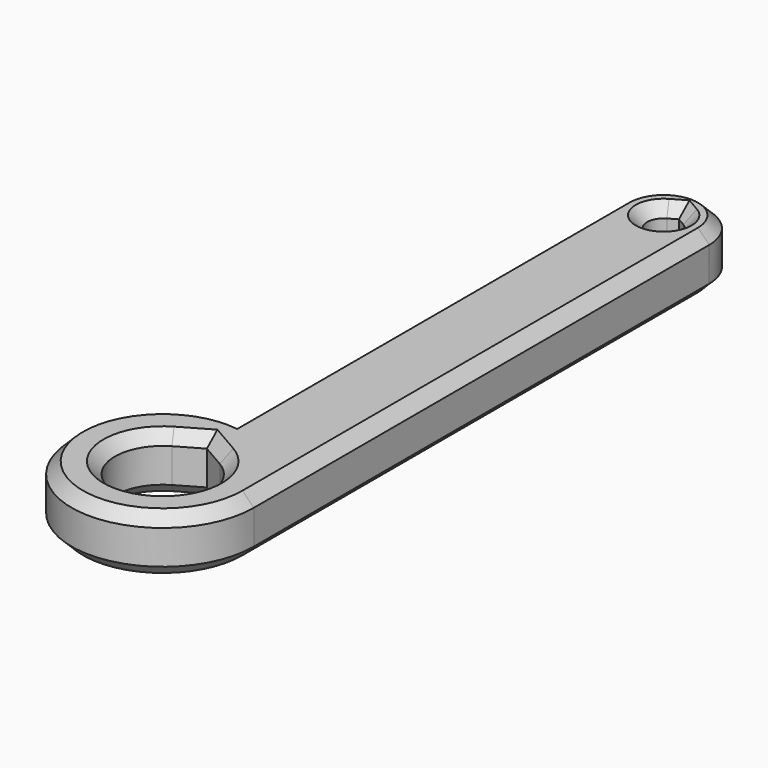
from build123d import *

# Parameters (mm, degrees)
SKETCH_R                   = 8
PAD_DEPTH                  = 5
PAD001_DEPTH               = 5
SKETCH002_R                = 1.45
HOLE_DEPTH                 = 25
HOLE_TEARDROPS_DEPTH       = 25
SKETCH003_R                = 8
PAD002_DEPTH               = 0.9
SKETCH004_R                = 4.2
HOLE001_DEPTH              = 25
HOLE001_TEARDROPS_DEPTH    = 25
HOLE001_TEARDROPS_FACE12_R = 8
POCKET_DEPTH               = 0.9
CHAMFER_SIZE               = 1


with BuildPart() as part:
    # Sketch → Pad (new body)
    with BuildSketch(Plane.XY):
        with Locations((-23, 0)):
            Circle(SKETCH_R)
    extrude(amount=PAD_DEPTH)

    # Sketch001 (on Face3 of Pad) → Pad001 (join)
    with BuildSketch(Plane.XY.offset(5)):
        with BuildLine():
            ThreePointArc((-23, 0), (-19, -4), (-15, 0))
            Line((-15, 0), (-15, 50))
            ThreePointArc((-15, 50), (-19, 54), (-23, 50))
            Line((-23, 0), (-23, 50))
        make_face()
    extrude(amount=-PAD001_DEPTH)

    # Sketch002 (on Face6 of Pad001) → Hole (cut)
    with BuildSketch(Plane.XY.offset(5)):
        with Locations((-19, 50)):
            Circle(SKETCH002_R)
    extrude(amount=-HOLE_DEPTH, mode=Mode.SUBTRACT)

    # Sketch002_Teardrops (on Sketch) → Hole_Teardrops (cut)
    with BuildSketch(Plane.XY.offset(5)):
        with BuildLine():
            ThreePointArc((-19.725, 51.255737), (-19, 48.55), (-18.275, 51.255737))
            Line((-18.275, 51.255737), (-19, 51.674316))
            Line((-19.725, 51.255737), (-19, 51.674316))
        make_face()
    extrude(amount=-HOLE_TEARDROPS_DEPTH, mode=Mode.SUBTRACT)

    # Sketch003 (on Face4 of Hole_Teardrops) → Pad002 (join)
    with BuildSketch(Plane(origin=(0, 0, 0), x_dir=(1, 0, 0), z_dir=(0, 0, -1))):
        with Locations((-23, 0)):
            Circle(SKETCH003_R)
    extrude(amount=PAD002_DEPTH)

    # Sketch004 (on Face2 of Pad002) → Hole001 (cut)
    with BuildSketch(Plane.XY.offset(5)):
        with Locations((-23, 0)):
            Circle(SKETCH004_R)
    extrude(amount=-HOLE001_DEPTH, mode=Mode.SUBTRACT)

    # Sketch004_Teardrops (on Sketch) → Hole001_Teardrops (cut)
    with BuildSketch(Plane.XY.offset(5)):
        with BuildLine():
            ThreePointArc((-25.1, 3.637307), (-23, -4.2), (-20.9, 3.637307))
            Line((-20.9, 3.637307), (-23, 4.849742))
            Line((-25.1, 3.637307), (-23, 4.849742))
        make_face()
    extrude(amount=-HOLE001_TEARDROPS_DEPTH, mode=Mode.SUBTRACT)

    # Hole001_Teardrops Face12 → Pocket (cut)
    with BuildSketch(Plane(origin=(-23, -0.028446, -0.9), x_dir=(0, -1, 0), z_dir=(0, 0, -1))):
        with Locations((-0.028446, 0)):
            Circle(HOLE001_TEARDROPS_FACE12_R)
        with BuildLine():
            ThreePointArc((-0.028446, -4.2), (-2.128446, -3.637307), (-3.665753, -2.1))
            Line((-3.665753, -2.1), (-4.878188, 0))
            Line((-4.878188, 0), (-3.665753, 2.1))
            ThreePointArc((-3.665753, 2.1), (3.608861, 2.1), (-0.028446, -4.2))
        make_face(mode=Mode.SUBTRACT)
    extrude(amount=-POCKET_DEPTH, mode=Mode.SUBTRACT)

    # Chamfer
    chamfer_edges = [part.edges().sort_by_distance(p)[0] for p in [
        (-19.725, 48.744263, 0),
        (-23, 29, 0),
        (-23, 29, 5),
        (-25.1, -3.637307, 0),
        (-25.1, -3.637307, 5),
        (-19.725, 48.744263, 5),
    ]]
    chamfer(chamfer_edges, length=CHAMFER_SIZE)


solid = part.part
